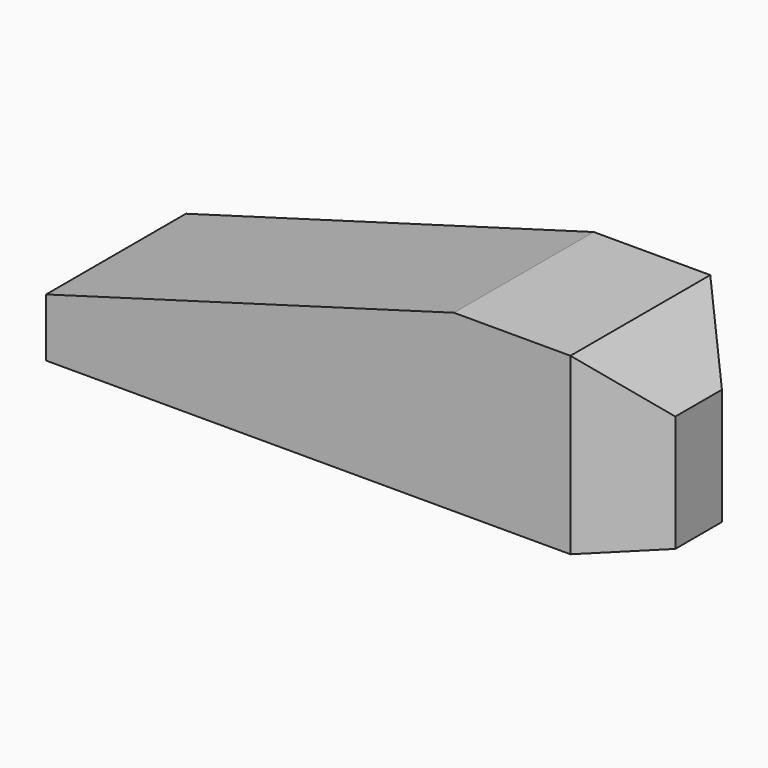
from build123d import *

# Parameters (mm, degrees)
F0_W     = 10
F0_H     = 3
F1_DEPTH = 3
F3_DEPTH = 25
F4_SIZE  = 1


with BuildPart() as f1:
    # F0 (on Top) → F1 (new body)
    with BuildSketch(Plane.XY):
        Rectangle(F0_W, F0_H)
        Rectangle(F0_W, F0_H)
    extrude(amount=F1_DEPTH)

    # F2 (on face) → F3 (cut)
    with BuildSketch(Plane.XZ.offset(1.5)):
        Polygon((-5, 3), (-5, 1), (2, 3), align=None)
    extrude(amount=-F3_DEPTH, mode=Mode.SUBTRACT)

    # F4
    f4_edges = [f1.edges().sort_by_distance(p)[0] for p in [
        (5, 0, 3),
        (5, -1.5, 1.5),
        (5, 1.5, 1.5),
    ]]
    chamfer(f4_edges, length=F4_SIZE)


solid = f1.part
